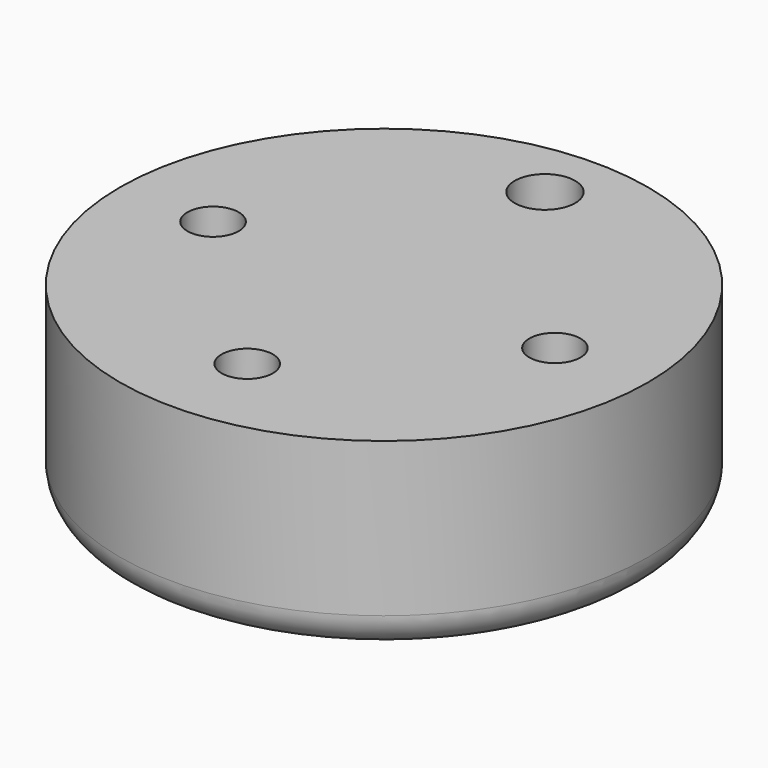
from build123d import *

# Parameters (mm, degrees)
F0_R     = 39.244095
F1_DEPTH = 15.24
F3_R     = 39.244095
F3_R_2   = 3.81
F3_R_3   = 4.493743
F4_DEPTH = 12.7
F5_R     = 5.08


with BuildPart() as f1:
    # F0 (on Top) → F1 (new body)
    with BuildSketch(Plane.XY):
        Circle(F0_R)
    extrude(amount=F1_DEPTH)

    # F3 (on face) → F4 (join)
    with BuildSketch(Plane.XY.offset(15.24)):
        Circle(F3_R)
        with Locations((0, -25.4)):
            Circle(F3_R_2, mode=Mode.SUBTRACT)
        with Locations((-25.4, 0)):
            Circle(F3_R_2, mode=Mode.SUBTRACT)
        with Locations((25.4, 0)):
            Circle(F3_R_2, mode=Mode.SUBTRACT)
        with Locations((0, 29.893743)):
            Circle(F3_R_3, mode=Mode.SUBTRACT)
    extrude(amount=F4_DEPTH)

    # F5
    f5_edges = [f1.edges().sort_by_distance(p)[0] for p in [
        (-39.244095, 0, 0),
    ]]
    fillet(f5_edges, radius=F5_R)


solid = f1.part
